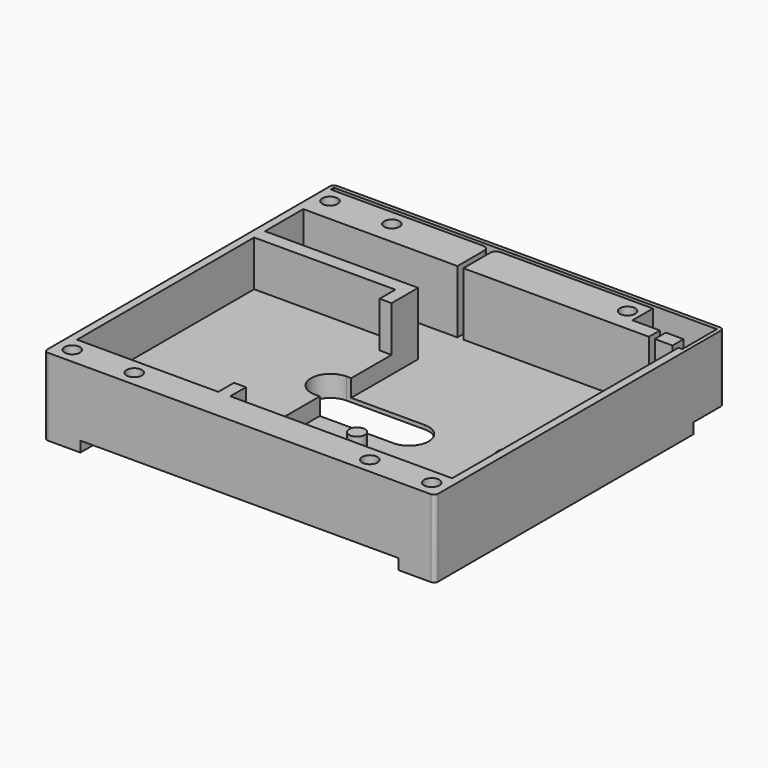
from build123d import *

# Parameters (mm, degrees)
PAD020_DEPTH    = 1
PAD021_DEPTH    = 17
POCKET014_DEPTH = 16
POCKET015_DEPTH = 11.6
SKETCH036_R     = 4
SKETCH036_R_2   = 1.95
SKETCH036_R_3   = 2
PAD022_DEPTH    = 5.5
SKETCH037_R     = 1.95
POCKET016_DEPTH = 8
PAD023_DEPTH    = 2.7
POCKET017_DEPTH = 17


with BuildPart() as part:
    # Sketch032 → Pad020 (new body)
    with BuildSketch(Plane.XY):
        with BuildLine():
            Line((-49.75, 45), (-49.75, -45))
            ThreePointArc((-49.75, -45), (-49.457107, -45.707107), (-48.75, -46))
            Line((-48.75, -46), (48.75, -46))
            ThreePointArc((48.75, -46), (49.457107, -45.707107), (49.75, -45))
            Line((49.75, -45), (49.75, 45))
            ThreePointArc((49.75, 45), (49.457107, 45.707107), (48.75, 46))
            Line((48.75, 46), (-48.75, 46))
            ThreePointArc((-48.75, 46), (-49.457107, 45.707107), (-49.75, 45))
        make_face()
    extrude(amount=PAD020_DEPTH)

    # Sketch033 → Pad021 (join)
    with BuildSketch(Plane.XY):
        with BuildLine():
            Line((-49.75, 45), (-49.75, -45))
            ThreePointArc((-49.75, -45), (-49.457107, -45.707107), (-48.75, -46))
            Line((-48.75, -46), (48.75, -46))
            ThreePointArc((48.75, -46), (49.457107, -45.707107), (49.75, -45))
            Line((49.75, -45), (49.75, 45))
            ThreePointArc((49.75, 45), (49.457107, 45.707107), (48.75, 46))
            Line((48.75, 46), (-48.75, 46))
            ThreePointArc((-48.75, 46), (-49.457107, 45.707107), (-49.75, 45))
        make_face()
        Polygon((-47.75, 34), (-47.75, 21.8), (-8.75, 21.8), (-8.75, -38), (47.75, -38), (47.75, 34), align=None, mode=Mode.SUBTRACT)
    extrude(amount=PAD021_DEPTH)

    # Sketch034 (on Face14 of Pad021) → Pocket014 (cut)
    with BuildSketch(Plane.XY.offset(17)):
        with BuildLine():
            Line((-48.75, 45), (-48.75, 44))
            Line((-48.75, 44), (-10, 44))
            ThreePointArc((-8.5, 42.5), (-8.93934, 43.56066), (-10, 44))
            Line((-8.5, 42.5), (-8.5, 34))
            Line((-8.5, 34), (-7, 34))
            Line((-7, 34), (-7, 42.5))
            ThreePointArc((-5.5, 44), (-6.56066, 43.56066), (-7, 42.5))
            Line((-5.5, 44), (33.25, 44))
            Line((33.25, 44), (33.25, 37.5))
            Line((33.25, 37.5), (40.25, 37.5))
            Line((40.25, 37.5), (40.25, 34))
            Line((41.75, 34), (40.25, 34))
            Line((41.75, 37.5), (41.75, 34))
            Line((41.75, 37.5), (46.25, 37.5))
            Line((46.25, 37.5), (46.25, 34))
            Line((46.25, 34), (48.75, 34))
            Line((48.75, 45), (48.75, 34))
            Line((48.75, 45), (-48.75, 45))
        make_face()
    extrude(amount=-POCKET014_DEPTH, mode=Mode.SUBTRACT)

    # Sketch035 (on Face14 of Pocket014) → Pocket015 (cut)
    with BuildSketch(Plane.XY.offset(17)):
        Polygon((-11.794, 18.358), (-47.75, 18.358), (-47.75, -38), (-11.794, -38), (-11.794, -33), (-8.75, -33), (-8.75, 13.358), (-11.794, 13.358), align=None)
    extrude(amount=-POCKET015_DEPTH, mode=Mode.SUBTRACT)

    # Sketch036 → Pad022 (join)
    with BuildSketch(Plane.XY):
        with Locations((37.75, -6)):
            Circle(SKETCH036_R)
        with Locations((37.75, -6)):
            Circle(SKETCH036_R_2, mode=Mode.SUBTRACT)
        with Locations((37.75, -28)):
            Circle(SKETCH036_R)
        with Locations((37.75, -28)):
            Circle(SKETCH036_R_2, mode=Mode.SUBTRACT)
        with Locations((6.75, -17)):
            Circle(SKETCH036_R_3)
    extrude(amount=PAD022_DEPTH)

    # Sketch037 (on Face14 of Pad022) → Pocket016 (cut)
    with BuildSketch(Plane.XY.offset(17)):
        with Locations((-45.75, -42)):
            Circle(SKETCH037_R)
        with Locations((-30, -42)):
            Circle(SKETCH037_R)
        with Locations((30, -42)):
            Circle(SKETCH037_R)
        with Locations((-45.75, 40)):
            Circle(SKETCH037_R)
        with Locations((-30, 40)):
            Circle(SKETCH037_R)
        with Locations((30, 40)):
            Circle(SKETCH037_R)
        with Locations((45.75, -42)):
            Circle(SKETCH037_R)
    extrude(amount=-POCKET016_DEPTH, mode=Mode.SUBTRACT)

    # Sketch038 (on Face4 of Pocket016) → Pad023 (join)
    with BuildSketch(Plane(origin=(0, 0, 0), x_dir=(1, 0, 0), z_dir=(0, 0, -1))):
        with BuildLine():
            Line((-40.500002, -36), (40.499998, -36))
            Line((40.499998, -36), (40.499998, 46))
            Line((48.75, 46), (40.499998, 46))
            ThreePointArc((49.75, 45), (49.457107, 45.707107), (48.75, 46))
            Line((49.75, -36), (49.75, 45))
            ThreePointArc((48.75, -37), (49.457107, -36.707107), (49.75, -36))
            Line((-48.75, -37), (48.75, -37))
            ThreePointArc((-49.75, -36), (-49.457107, -36.707107), (-48.75, -37))
            Line((-49.75, 45), (-49.75, -36))
            ThreePointArc((-48.750005, 46), (-49.457108, 45.707105), (-49.75, 45))
            Line((-48.750005, 46), (-40.500002, 46))
            Line((-40.500002, 46), (-40.500002, -36))
        make_face()
    extrude(amount=PAD023_DEPTH)

    # Sketch039 → Pocket017 (cut)
    with BuildSketch(Plane.XY):
        with BuildLine():
            ThreePointArc((-10, 0.5), (-15, -4.5), (-10, -9.5))
            Line((-10, -9.5), (10, -9.5))
            ThreePointArc((10, -9.5), (15, -4.5), (10, 0.5))
            Line((-10, 0.5), (10, 0.5))
        make_face()
    extrude(amount=POCKET017_DEPTH, mode=Mode.SUBTRACT)


solid = part.part
